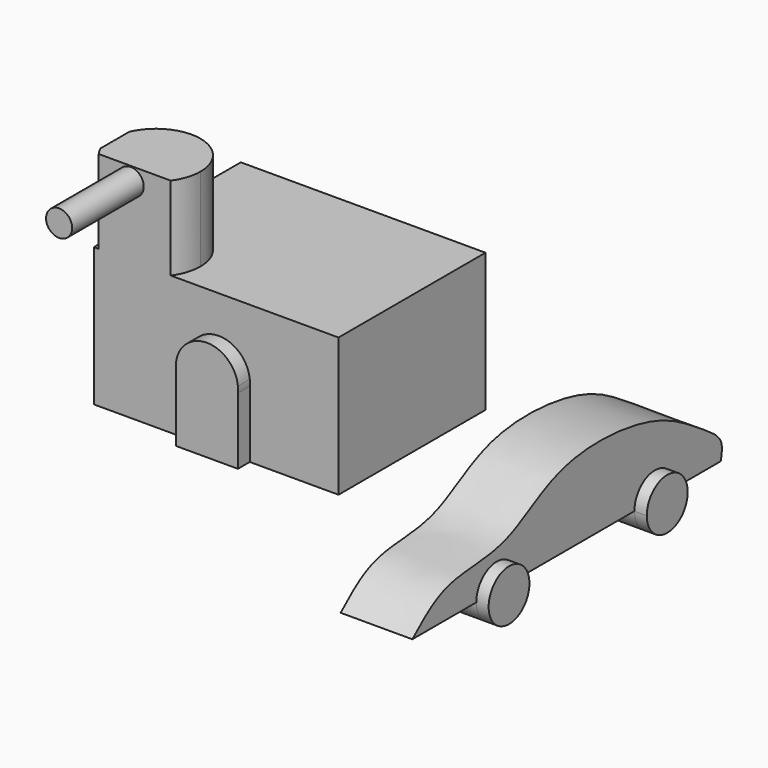
from build123d import *

# Parameters (mm, degrees)
F0_W           = 125.6985701621
F0_H           = 94.37424317
F1_DEPTH       = 71.12
F3_DEPTH       = 7.62
F5_DEPTH       = 42.926
F6_R           = 6.6998463105
F7_DEPTH       = 45.974
F10_DEPTH      = 36.83
F12_DEPTH      = 41.91
F12_DEPTH_BACK = 6.35


with BuildPart() as f1:
    # F0 (on Top) → F1 (new body)
    with BuildSketch(Plane.XY):
        with Locations((-1.3424884528, 8.5609909147)):
            Rectangle(F0_W, F0_H)
    extrude(amount=F1_DEPTH)

    # F2 (on face) → F3 (join)
    with BuildSketch(Plane.XZ.offset(38.6261306703)):
        with BuildLine():
            Line((15.9182339085, 37.4408234342), (15.9182339085, 34.2940743581))
            ThreePointArc((15.9182339085, 34.2940743581), (15.9958018931, 35.8674488962), (15.9182339085, 37.4408234342))
        make_face()
        with BuildLine():
            Line((15.9182339085, 0), (15.9182339085, 34.2940743581))
            Line((15.9182339085, 34.2940743581), (15.9182339085, 37.4408234342))
            ThreePointArc((15.9182339085, 37.4408234342), (-0.1595166751, 51.8624553868), (-15.9464469133, 37.1230400097))
            Line((-15.9464469133, 37.1230400097), (-15.9464469133, 34.6118577826))
            Line((-15.9464469133, 34.6118577826), (-15.9464469133, 0))
            Line((-15.9464469133, 0), (15.9182339085, 0))
        make_face()
        with BuildLine():
            Line((-15.9464469133, 34.6118577826), (-15.9464469133, 37.1230400097))
            ThreePointArc((-15.9464469133, 37.1230400097), (-15.9958018931, 35.8674488962), (-15.9464469133, 34.6118577826))
        make_face()
    extrude(amount=F3_DEPTH)

    # F4 (on face) → F5 (join)
    with BuildSketch(Plane.XY.offset(71.12)):
        with BuildLine():
            ThreePointArc((-24.7089412616, -38.6261306703), (-21.3991816992, -32.1931757033), (-20.2580750936, -25.04927665))
            ThreePointArc((-20.2580750936, -25.04927665), (-38.4843703373, -2.6046738775), (-64.1917735338, -15.8367354256))
            Line((-64.1917735338, -15.8367354256), (-64.1917735338, -34.2618178743))
            ThreePointArc((-64.1917735338, -34.2618178743), (-63.0524764581, -36.5133755378), (-61.672702749, -38.6261306703))
            Line((-61.672702749, -38.6261306703), (-24.7089412616, -38.6261306703))
        make_face()
    extrude(amount=F5_DEPTH)

    # F6 (on face) → F7 (join)
    with BuildSketch(Plane.XZ.offset(38.6261306703)):
        with Locations((-45.255728066, 106.8193688989)):
            Circle(F6_R)
    extrude(amount=F7_DEPTH)


with BuildPart() as f10:
    # F9 (on offset) → F10 (new body)
    with BuildSketch(Plane.YZ.offset(126.238)):
        with BuildLine():
            add(Edge.make_bspline(
                [(-118.1647330523, 0), (-111.3943123905, 5.9643104463), (-96.7687703267, 18.8484837751), (-56.7744643499, 15.3249723815), (-24.7729904377, 44.4988288222), (38.460207848, 39.5774879774), (64.7590483897, 21.1043497126), (82.1158191607, 10.5659729542), (80.5463853376, 3.1284933557), (79.8862203956, 0)],
                knots=[0, 0, 0, 0, 0.135573185, 0.2928667831, 0.4609684124, 0.6621783296, 0.8126885703, 0.9212095233, 1, 1, 1, 1], degree=3))
            add(Edge.make_bspline(
                [(-118.1647330523, 0), (-52.1477485696, 0), (13.869235913, 0), (79.8862203956, 0)],
                knots=[0, 0, 0, 0, 198.0509534478, 198.0509534478, 198.0509534478, 198.0509534478], degree=3))
        make_face()
    extrude(amount=F10_DEPTH)

    # F11 (on face) → F12 (join, two sides)
    with BuildSketch(Plane.YZ.offset(163.068)) as f12_sk:
        with BuildLine():
            add(Edge.make_bspline(
                [(-77.108502472, 0), (-68.3721502902, 0), (-59.6357981084, 0), (-50.8994459266, 0)],
                knots=[41.0562305803, 41.0562305803, 41.0562305803, 41.0562305803, 67.2652871257, 67.2652871257, 67.2652871257, 67.2652871257], degree=3))
            ThreePointArc((-50.8994459266, 0), (-64.0039741993, 13.1045282727), (-77.108502472, 0))
        make_face()
        with BuildLine():
            ThreePointArc((-77.108502472, 0), (-64.0039741993, -13.1045282727), (-50.8994459266, 0))
            add(Edge.make_bspline(
                [(-77.108502472, 0), (-68.3721502902, 0), (-59.6357981084, 0), (-50.8994459266, 0)],
                knots=[41.0562305803, 41.0562305803, 41.0562305803, 41.0562305803, 67.2652871257, 67.2652871257, 67.2652871257, 67.2652871257], degree=3))
        make_face()
        with BuildLine():
            add(Edge.make_bspline(
                [(24.4511429628, 0), (33.205387134, 0), (41.9596313053, 0), (50.7138754765, 0)],
                knots=[142.6158760151, 142.6158760151, 142.6158760151, 142.6158760151, 168.8786085287, 168.8786085287, 168.8786085287, 168.8786085287], degree=3))
            ThreePointArc((24.4511429628, 0), (37.5825092196, -13.1313662568), (50.7138754765, 0))
        make_face()
        with BuildLine():
            ThreePointArc((50.7138754765, 0), (37.5825092196, 13.1313662568), (24.4511429628, 0))
            add(Edge.make_bspline(
                [(24.4511429628, 0), (33.205387134, 0), (41.9596313053, 0), (50.7138754765, 0)],
                knots=[142.6158760151, 142.6158760151, 142.6158760151, 142.6158760151, 168.8786085287, 168.8786085287, 168.8786085287, 168.8786085287], degree=3))
        make_face()
    extrude(amount=-F12_DEPTH)
    extrude(f12_sk.sketch, amount=F12_DEPTH_BACK)


solid = Compound([f1.part, f10.part])
